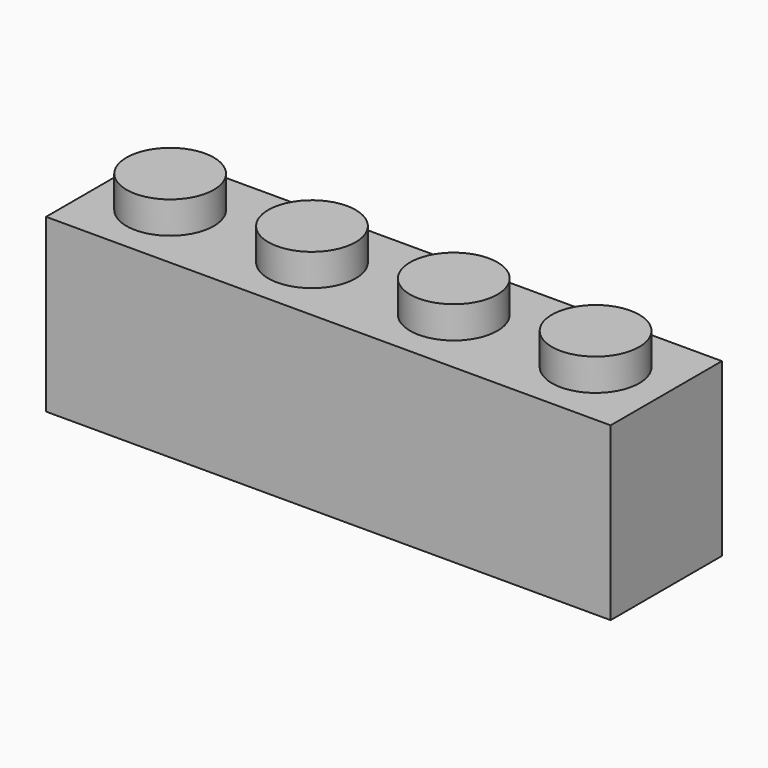
from build123d import *

# Parameters (mm, degrees)
F0_W     = 31.8516
F0_H     = 7.8486
F1_DEPTH = 9.6774
F2_R     = 2.4638
F3_DEPTH = 1.8034
F5_W     = 28.7528
F5_H     = 4.7498
F5_R     = 1.5494
F6_DEPTH = 8.0772


with BuildPart() as f1:
    # F0 (on Top) → F1 (new body)
    with BuildSketch(Plane.XY):
        Rectangle(F0_W, F0_H)
    extrude(amount=F1_DEPTH)

    # F2 (on face) → F3 (join)
    with BuildSketch(Plane.XY.offset(9.6774)):
        with Locations((-4.064, 0)):
            Circle(F2_R)
        with Locations((3.937, 0)):
            Circle(F2_R)
        with Locations((11.938, 0)):
            Circle(F2_R)
        with Locations((-12.065, 0)):
            Circle(F2_R)
    extrude(amount=F3_DEPTH)

    # F5 (on face) → F6 (cut)
    with BuildSketch(Plane(origin=(0, 0, 0), x_dir=(1, 0, 0), z_dir=(0, 0, -1))):
        Rectangle(F5_W, F5_H)
        with Locations((-8.1407, 0)):
            Circle(F5_R, mode=Mode.SUBTRACT)
        with Locations((-0.1651, 0)):
            Circle(F5_R, mode=Mode.SUBTRACT)
        with Locations((7.8105, 0)):
            Circle(F5_R, mode=Mode.SUBTRACT)
    extrude(amount=-F6_DEPTH, mode=Mode.SUBTRACT)


solid = f1.part
